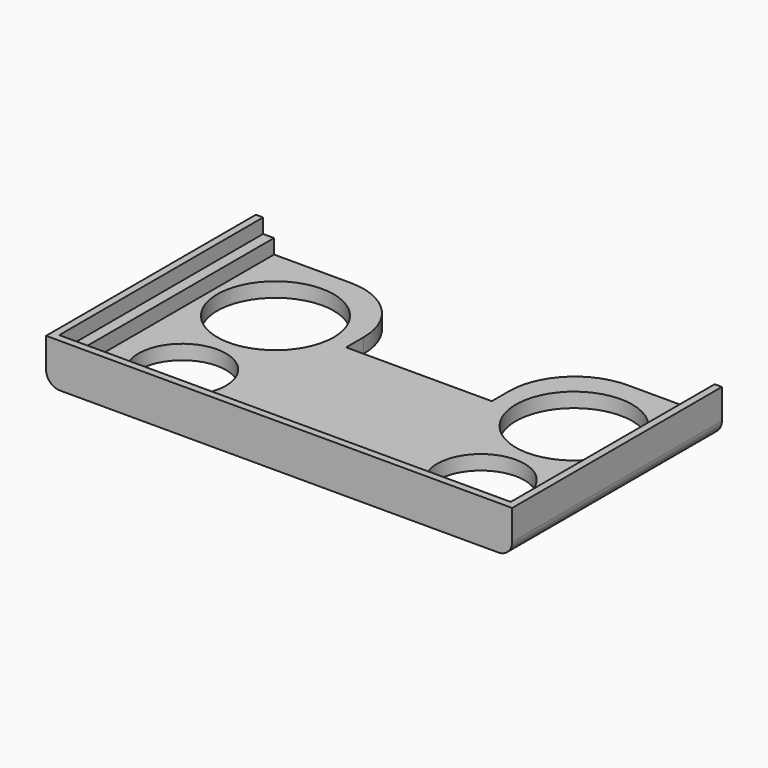
from build123d import *

# Parameters (mm, degrees)
BOX123_W          = 1
BOX123_H          = 35
BOX123_DEPTH      = 2
BOX126_W          = 2.5
BOX126_H          = 36
BOX126_DEPTH      = 4
BOX128_W          = 64
BOX128_H          = 1
BOX128_DEPTH      = 2
BOX131_W          = 59
BOX131_H          = 2
BOX131_DEPTH      = 2
BOX125_W          = 1
BOX125_H          = 35
BOX125_DEPTH      = 2
CYLINDER055_R     = 8
CYLINDER055_DEPTH = 2
CYLINDER054_R     = 8
CYLINDER054_DEPTH = 2
CYLINDER057_R     = 6
CYLINDER057_DEPTH = 2
CYLINDER056_R     = 6
CYLINDER056_DEPTH = 2
BOX130_W          = 20
BOX130_H          = 12
BOX130_DEPTH      = 2
BOX129_W          = 59
BOX129_H          = 36
BOX129_DEPTH      = 2
BOX122_W          = 2.5
BOX122_H          = 36
BOX122_DEPTH      = 4
FILLET026_R       = 1.9
FILLET027_R       = 9


with BuildPart() as cube113:
    # Box123 → Box123 (new body)
    with BuildSketch(Plane(origin=(27.5, -4, -15), x_dir=(1, 0, 0), z_dir=(0, 0, 1))):
        with Locations((0.5, 17.5)):
            Rectangle(BOX123_W, BOX123_H)
    extrude(amount=BOX123_DEPTH)


with BuildPart() as cube116:
    # Box126 → Box126 (new body)
    with BuildSketch(Plane(origin=(89, -5, -19), x_dir=(1, 0, 0), z_dir=(0, 0, 1))):
        with Locations((1.25, 18)):
            Rectangle(BOX126_W, BOX126_H)
    extrude(amount=BOX126_DEPTH)


with BuildPart() as cube118:
    # Box128 → Box128 (new body)
    with BuildSketch(Plane(origin=(27.5, -5, -15), x_dir=(1, 0, 0), z_dir=(0, 0, 1))):
        with Locations((32, 0.5)):
            Rectangle(BOX128_W, BOX128_H)
    extrude(amount=BOX128_DEPTH)


with BuildPart() as cube121:
    # Box131 → Box131 (new body)
    with BuildSketch(Plane(origin=(30, -5, -17), x_dir=(1, 0, 0), z_dir=(0, 0, 1))):
        with Locations((29.5, 1)):
            Rectangle(BOX131_W, BOX131_H)
    extrude(amount=BOX131_DEPTH)


with BuildPart() as cube115:
    # Box125 → Box125 (new body)
    with BuildSketch(Plane(origin=(90.5, -4, -15), x_dir=(1, 0, 0), z_dir=(0, 0, 1))):
        with Locations((0.5, 17.5)):
            Rectangle(BOX125_W, BOX125_H)
    extrude(amount=BOX125_DEPTH)


with BuildPart() as cylinder136:
    # Cylinder055 → Cylinder055 (new body)
    with BuildSketch(Plane(origin=(80, 20, -19), x_dir=(1, 0, 0), z_dir=(0, 0, 1))):
        Circle(CYLINDER055_R)
    extrude(amount=CYLINDER055_DEPTH)


with BuildPart() as cylinder135:
    # Cylinder054 → Cylinder054 (new body)
    with BuildSketch(Plane(origin=(39, 20, -19), x_dir=(1, 0, 0), z_dir=(0, 0, 1))):
        Circle(CYLINDER054_R)
    extrude(amount=CYLINDER054_DEPTH)


with BuildPart() as cylinder138:
    # Cylinder057 → Cylinder057 (new body)
    with BuildSketch(Plane(origin=(39, 4, -19), x_dir=(1, 0, 0), z_dir=(0, 0, 1))):
        Circle(CYLINDER057_R)
    extrude(amount=CYLINDER057_DEPTH)


with BuildPart() as cylinder137:
    # Cylinder056 → Cylinder056 (new body)
    with BuildSketch(Plane(origin=(80, 4, -19), x_dir=(1, 0, 0), z_dir=(0, 0, 1))):
        Circle(CYLINDER056_R)
    extrude(amount=CYLINDER056_DEPTH)


with BuildPart() as cube120:
    # Box130 → Box130 (new body)
    with BuildSketch(Plane(origin=(49.5, 19, -19), x_dir=(1, 0, 0), z_dir=(0, 0, 1))):
        with Locations((10, 6)):
            Rectangle(BOX130_W, BOX130_H)
    extrude(amount=BOX130_DEPTH)


with BuildPart() as cut081:
    # Box129 → Box129 (new body)
    with BuildSketch(Plane(origin=(30, -5, -19), x_dir=(1, 0, 0), z_dir=(0, 0, 1))):
        with Locations((29.5, 18)):
            Rectangle(BOX129_W, BOX129_H)
    extrude(amount=BOX129_DEPTH)

    # Cut077: cut Cube120
    add(cube120.part, mode=Mode.SUBTRACT)

    # Cut078: cut Cylinder137
    add(cylinder137.part, mode=Mode.SUBTRACT)

    # Cut079: cut Cylinder138
    add(cylinder138.part, mode=Mode.SUBTRACT)

    # Cut080: cut Cylinder135
    add(cylinder135.part, mode=Mode.SUBTRACT)

    # Cut081: cut Cylinder136
    add(cylinder136.part, mode=Mode.SUBTRACT)


with BuildPart() as fillet027:
    # Box122 → Box122 (new body)
    with BuildSketch(Plane(origin=(27.5, -5, -19), x_dir=(1, 0, 0), z_dir=(0, 0, 1))):
        with Locations((1.25, 18)):
            Rectangle(BOX122_W, BOX122_H)
    extrude(amount=BOX122_DEPTH)

    # Fusion045: union Cube113, Cube116, Cube118, Cube121, Cube115, Cut081
    add(cube113.part)
    add(cube116.part)
    add(cube118.part)
    add(cube121.part)
    add(cube115.part)
    add(cut081.part)

    # Fillet026
    fillet026_edges = [fillet027.edges().sort_by_distance(p)[0] for p in [
        (27.5, 13, -19),
        (91.5, 13, -19),
    ]]
    fillet(fillet026_edges, radius=FILLET026_R)

    # Fillet027
    fillet027_edges = [fillet027.edges().sort_by_distance(p)[0] for p in [
        (49.5, 31, -18),
        (69.5, 31, -18),
    ]]
    fillet(fillet027_edges, radius=FILLET027_R)


solid = fillet027.part
